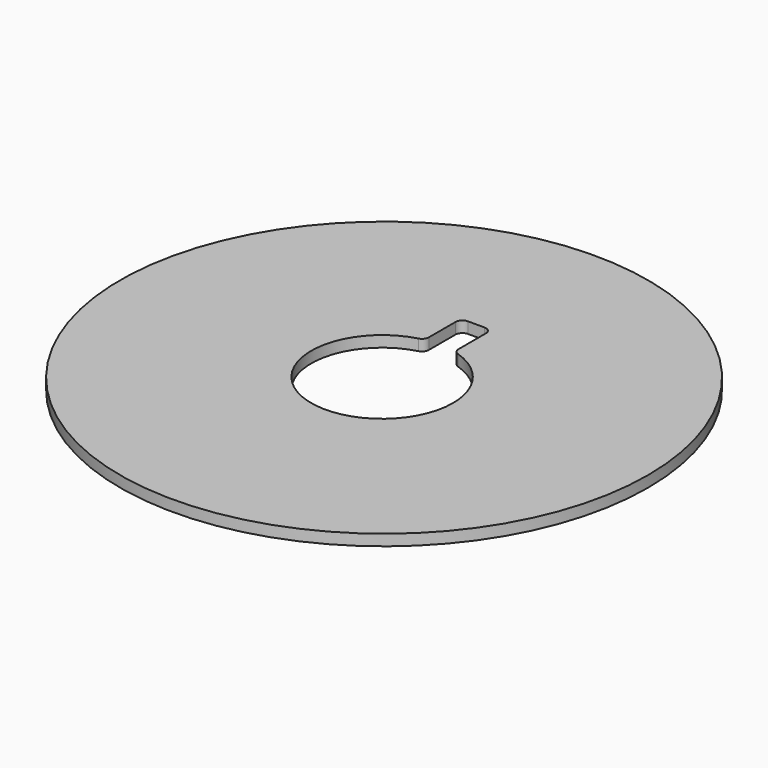
from build123d import *

# Parameters (mm, degrees)
F0_R     = 19
F1_DEPTH = 0.8
F2_R     = 0.5


with BuildPart() as f1:
    # F0 (on Top) → F1 (new body)
    with BuildSketch(Plane.XY):
        Circle(F0_R)
        with BuildLine():
            ThreePointArc((1.1, 4.946329), (3.879108, 3.136336), (4.957492, 0))
            ThreePointArc((4.957492, 0), (-3.392645, -3.930217), (-1.1, 5.009312))
            Line((-1.1, 5.009312), (-1.1, 8.298009))
            Line((-1.1, 8.298009), (1.1, 8.298009))
            Line((1.1, 8.298009), (1.1, 4.946329))
        make_face(mode=Mode.SUBTRACT)
    extrude(amount=F1_DEPTH)

    # F2
    f2_edges = [f1.edges().sort_by_distance(p)[0] for p in [
        (1.1, 4.946329, 0.4),
        (1.1, 8.298009, 0.4),
        (-1.1, 8.298009, 0.4),
        (-1.1, 5.009312, 0.4),
    ]]
    fillet(f2_edges, radius=F2_R)


solid = f1.part
